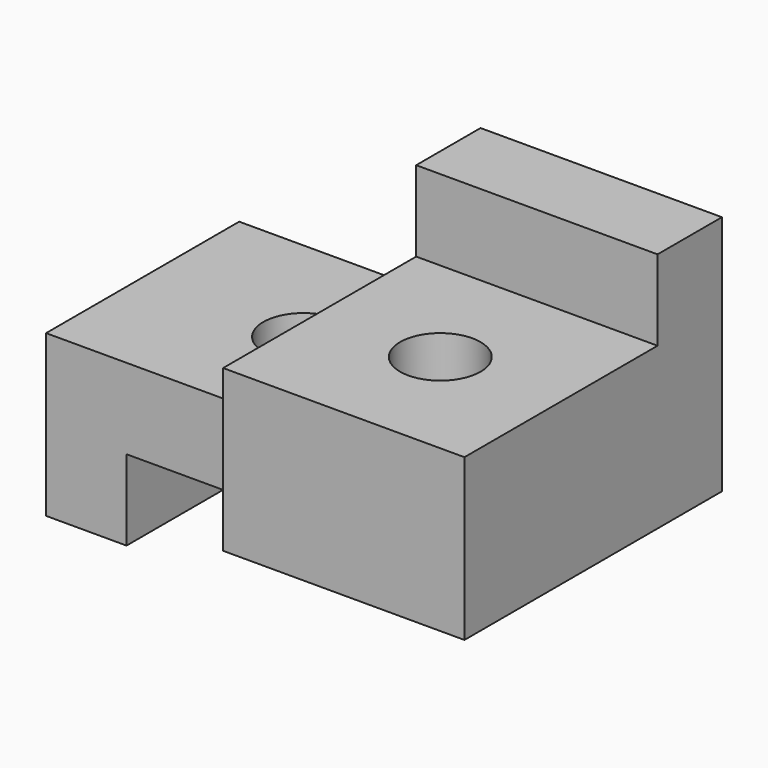
from build123d import *

# Parameters (mm, degrees)
F1_DEPTH = 19.05
F2_DEPTH = 25.4
F0_W     = 19.05
F0_H     = 6.35
F3_DEPTH = 6.35
F4_R     = 3.175
F5_DEPTH = 19.051


with BuildPart() as f1:
    # F0 (on Front) → F1 (new body)
    with BuildSketch(Plane.XZ):
        Polygon((0, 6.35), (0, 0), (0, -6.35), (6.35, -6.35), (6.35, 0), (19.05, 0), (19.05, 6.35), align=None)
    extrude(amount=F1_DEPTH)

    # F0 (on Front) → F2 (join)
    with BuildSketch(Plane.XZ):
        Polygon((19.05, 12.7), (19.05, 6.35), (19.05, 0), (38.1, 0), (38.1, 12.7), align=None)
    extrude(amount=F2_DEPTH)

    # F0 (on Front) → F3 (join)
    with BuildSketch(Plane.XZ):
        with Locations((28.575, 15.875)):
            Rectangle(F0_W, F0_H)
    extrude(amount=F3_DEPTH)

    # F4 (on face) → F5 (cut, through all)
    with BuildSketch(Plane.XY.offset(12.7)):
        with Locations((12.7, -9.525)):
            Circle(F4_R)
        with Locations((28.575, -15.875)):
            Circle(F4_R)
    extrude(amount=-F5_DEPTH, mode=Mode.SUBTRACT)


solid = f1.part
